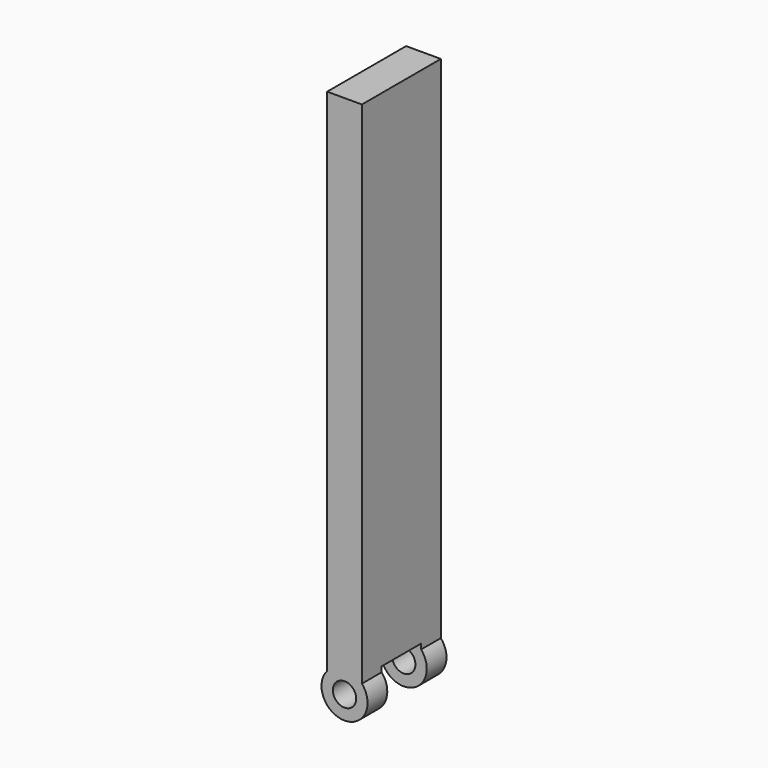
from build123d import *

# Parameters (mm, degrees)
F0_R          = 7.1
F1_DEPTH      = 60
F2_W          = 30
F2_H          = 27.0439040799
F3_DEPTH      = 25
F3_DEPTH_BACK = 25


with BuildPart() as f1:
    # F0 (on Front) → F1 (new body)
    with BuildSketch(Plane.XZ):
        with BuildLine():
            Line((-10.5591211108, 319.1935136895), (-10.5583761074, 9.1935136904))
            ThreePointArc((-10.5583761074, 9.1935136904), (-0.0005672768, -13.9999999885), (10.5591211108, 9.1926580142))
            Line((10.5591211108, 9.1926580142), (10.5583761074, 319.1926580133))
            Line((10.5583761074, 319.1926580133), (-10.5591211108, 319.1935136895))
        make_face()
        Circle(F0_R, mode=Mode.SUBTRACT)
    extrude(amount=F1_DEPTH)

    # F2 (on Right) → F3 (cut, two sides)
    with BuildSketch(Plane.YZ) as f3_sk:
        with Locations((-30, -1.146184979)):
            Rectangle(F2_W, F2_H)
    extrude(amount=-F3_DEPTH, mode=Mode.SUBTRACT)
    extrude(f3_sk.sketch, amount=F3_DEPTH_BACK, mode=Mode.SUBTRACT)


solid = f1.part
